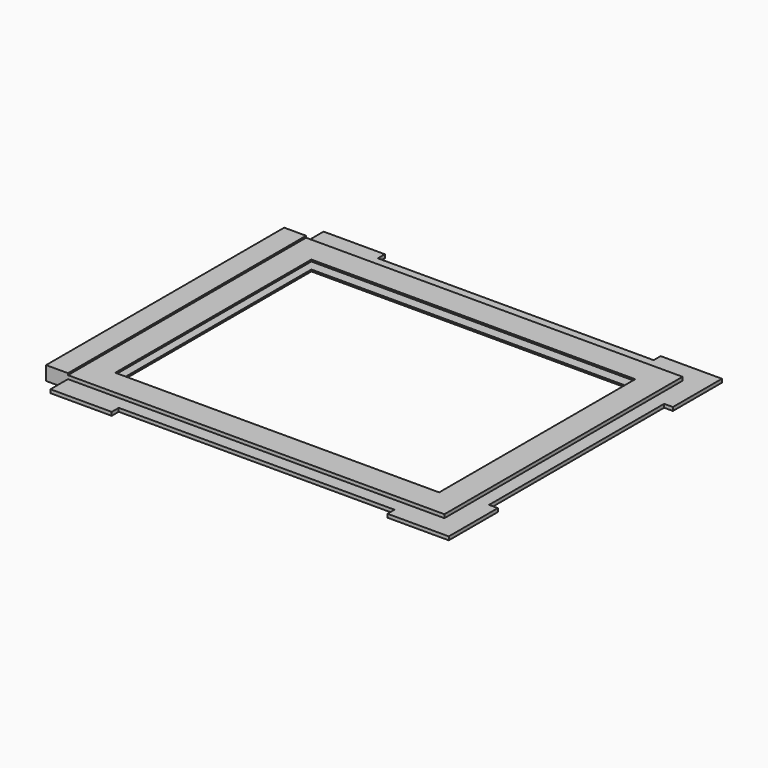
from build123d import *

# Parameters (mm, degrees)
F0_W     = 215
F0_H     = 170
F0_W_2   = 185
F0_H_2   = 140
F1_DEPTH = 3
F0_W_3   = 12.5
F2_DEPTH = 4
F3_DEPTH = 1
F4_W     = 166
F4_H     = 4
F5_DEPTH = 225.5


with BuildPart() as f1:
    # F0 (on Top) → F1 (new body, symmetric)
    with BuildSketch(Plane.XY):
        Rectangle(F0_W, F0_H)
        Rectangle(F0_W_2, F0_H_2, mode=Mode.SUBTRACT)
    extrude(amount=F1_DEPTH, both=True)

    # F0 (on Top) → F2 (join, symmetric)
    with BuildSketch(Plane.XY):
        with Locations((-113.75, 0)):
            Rectangle(F0_W_3, F0_H)
    extrude(amount=F2_DEPTH, both=True)

    # F0 (on Top) → F3 (join, symmetric)
    with BuildSketch(Plane.XY):
        Polygon((120, 62.5), (120, 97.5), (85, 97.5), (85, 92.5), (-72.5, 92.5), (-72.5, 97.5), (-107.5, 97.5), (-107.5, 85), (107.5, 85), (107.5, -85), (-107.5, -85), (-107.5, -97.5), (-72.5, -97.5), (-72.5, -92.5), (85, -92.5), (85, -97.5), (120, -97.5), (120, -62.5), (115, -62.5), (115, 62.5), align=None)
    extrude(amount=F3_DEPTH, both=True)

    # F4 (on face) → F5 (cut)
    with BuildSketch(Plane(origin=(-120, 0, 0), x_dir=(0, -1, 0), z_dir=(-1, 0, 0))):
        Rectangle(F4_W, F4_H)
    extrude(amount=-F5_DEPTH, mode=Mode.SUBTRACT)


solid = f1.part
